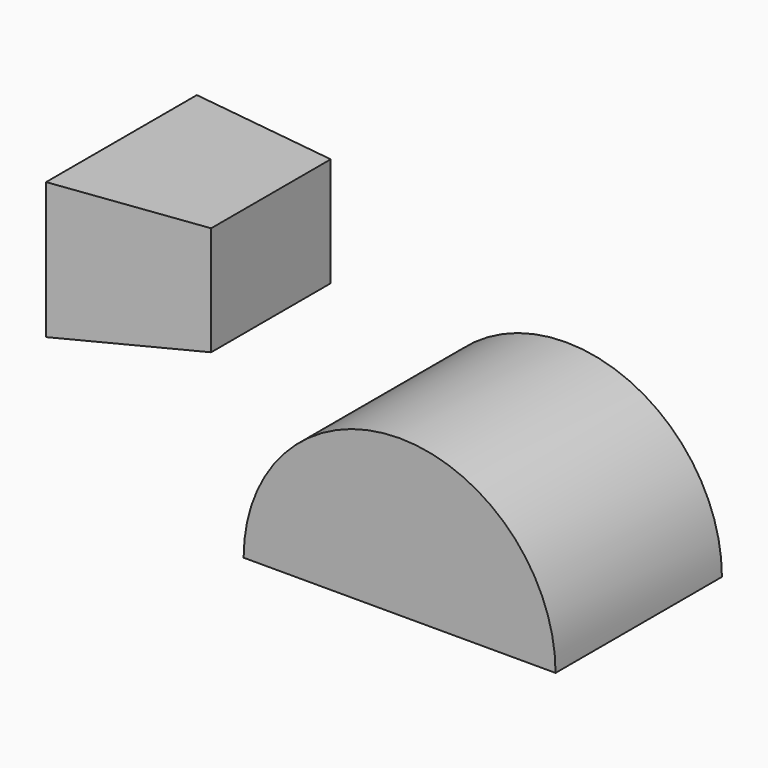
from build123d import *

# Parameters (mm, degrees)
F1_DEPTH = 101.6
F6_W     = 184.15
F6_H     = 133.35
F5_W     = 146.05
F5_H     = 106.68


with BuildPart() as f1:
    # F0 (on Front) → F1 (new body, symmetric)
    with BuildSketch(Plane.XZ):
        with BuildLine():
            Line((-152.4, 0), (152.4, 0))
            ThreePointArc((152.4, 0), (0, 152.4), (-152.4, 0))
        make_face()
    extrude(amount=F1_DEPTH, both=True)


with BuildPart() as f7:
    # F6 (on face) → F7 section 0
    with BuildSketch(Plane.YZ.offset(-353.06)):
        with Locations((0, 187.325)):
            Rectangle(F6_W, F6_H)
    # F5 (on face) → F7 section 1
    with BuildSketch(Plane.YZ.offset(-207.01)):
        with Locations((0, 200.66)):
            Rectangle(F5_W, F5_H)
    loft()


solid = Compound([f1.part, f7.part])
